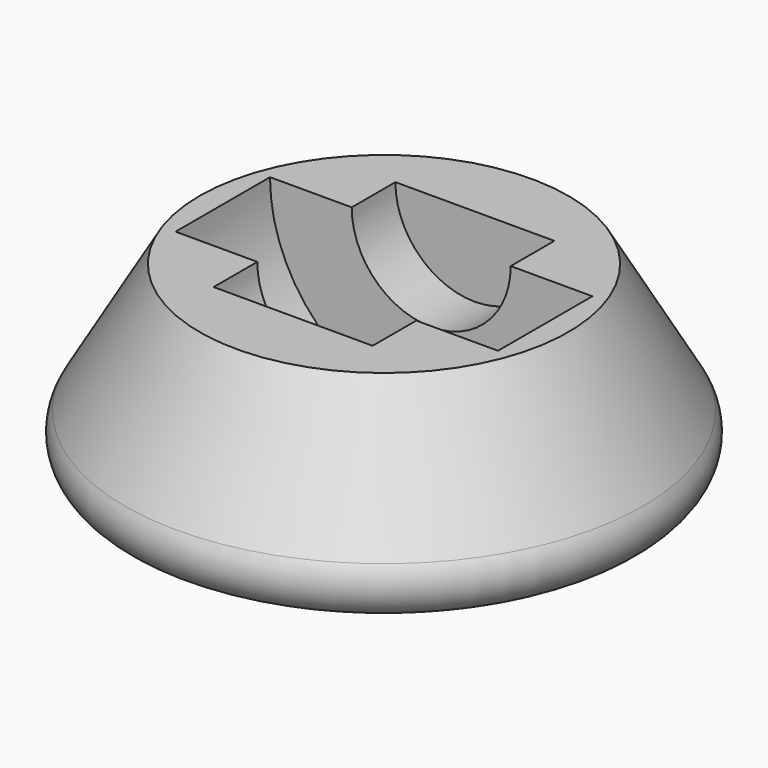
from build123d import *

# Parameters (mm, degrees)
F4_DEPTH = 8
F5_R     = 5
F6_R     = 10.7775
F7_DEPTH = 15.4


with BuildPart() as f2:
    # F1 (on Front) → F2 (revolve)
    with BuildSketch(Plane.XZ):
        Polygon((-39.4337567297, 0), (0, 0), (0, 25), (-25, 25), align=None)
    revolve(axis=Axis((0, 0, 12.5), (0, 0, -1)))

    # F3 (on Front) → F4 (cut, symmetric)
    with BuildSketch(Plane.XZ):
        with BuildLine():
            Line((21.855, 25), (0, 25))
            Line((0, 25), (0, 3.145))
            ThreePointArc((0, 3.145), (15.4538187028, 9.5461812972), (21.855, 25))
        make_face()
        with BuildLine():
            Line((0, 3.145), (0, 25))
            Line((0, 25), (-21.855, 25))
            ThreePointArc((-21.855, 25), (-15.4538187028, 9.5461812972), (0, 3.145))
        make_face()
    extrude(amount=F4_DEPTH, both=True, mode=Mode.SUBTRACT)

    # F5
    f5_edges = [f2.edges().sort_by_distance(p)[0] for p in [
        (39.433757, 0, 0),
    ]]
    fillet(f5_edges, radius=F5_R)

    # F6 (on Front) → F7 (cut, symmetric)
    with BuildSketch(Plane.XZ):
        with Locations((0, 25)):
            Circle(F6_R)
    extrude(amount=F7_DEPTH, both=True, mode=Mode.SUBTRACT)


solid = f2.part
